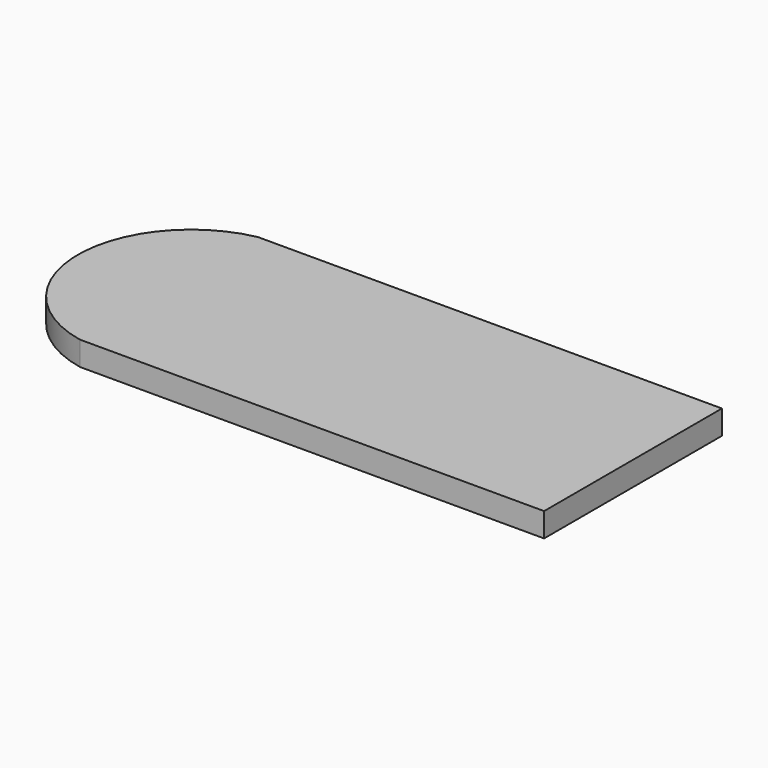
from build123d import *

# Parameters (mm, degrees)
F1_DEPTH = 4.318
F0_W     = 35.3890396655
F0_H     = 39.8430349305
F0_W_2   = 43.8111424446
F2_DEPTH = 4.318


with BuildPart() as f1:
    # F0 (on Top) → F1 (new body)
    with BuildSketch(Plane.XY):
        with BuildLine():
            Line((-35.3890396655, 25.0233691186), (-39.3934799361, 25.0233691186))
            ThreePointArc((-39.3934799361, 25.0233691186), (-55.7090396655, 5.1018516533), (-39.3934799361, -14.819665812))
            Line((-39.3934799361, -14.819665812), (-35.3890396655, -14.819665812))
            Line((-35.3890396655, -14.819665812), (-35.3890396655, 25.0233691186))
        make_face()
    extrude(amount=F1_DEPTH)

    # F0 (on Top) → F2 (join)
    with BuildSketch(Plane.XY):
        with Locations((-17.6945198327, 5.1018516533)):
            Rectangle(F0_W, F0_H)
        with Locations((21.9055712223, 5.1018516533)):
            Rectangle(F0_W_2, F0_H)
    extrude(amount=F2_DEPTH)


solid = f1.part
